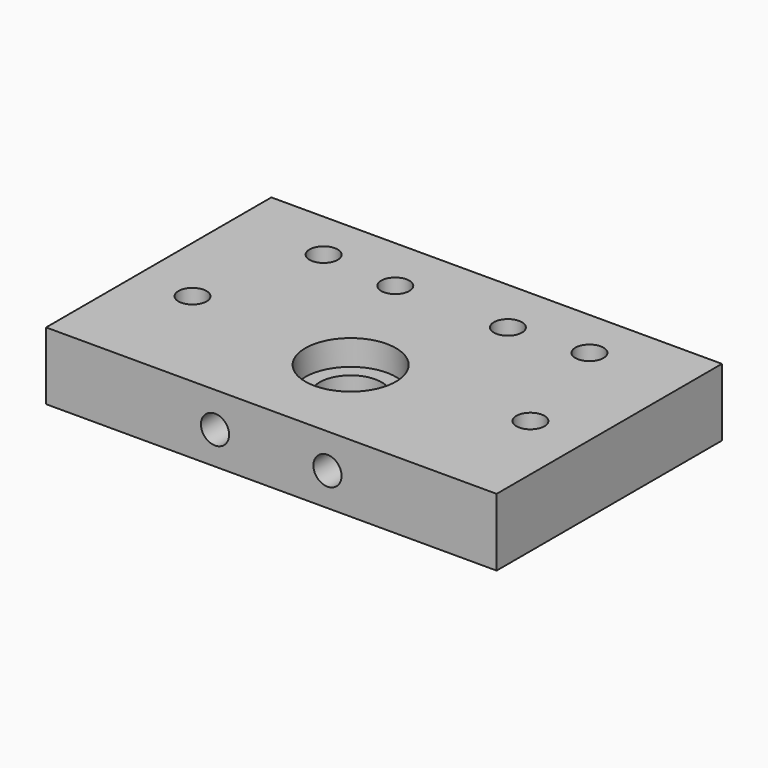
from build123d import *

# Parameters (mm, degrees)
SKETCH001_W     = 80
SKETCH001_H     = 50
SKETCH001_R     = 2.5
SKETCH001_R_2   = 5.5
PAD_DEPTH       = 12
SKETCH002_R     = 2.5
POCKET_DEPTH    = 11
SKETCH003_R     = 8.05
POCKET001_DEPTH = 4.5
SKETCH004_R     = 4.6
SKETCH004_R_2   = 4.624594
SKETCH004_R_3   = 4.583454
SKETCH004_R_4   = 4.624604
POCKET002_DEPTH = 1.55


with BuildPart() as part:
    # Sketch001 → Pad (new body)
    with BuildSketch(Plane(origin=(260, 460, 88), x_dir=(-1, 0, 0), z_dir=(0, 0, 1))):
        with Locations((40, 25)):
            Rectangle(SKETCH001_W, SKETCH001_H)
        with Locations((10, 30)):
            Circle(SKETCH001_R, mode=Mode.SUBTRACT)
        with Locations((30, 10)):
            Circle(SKETCH001_R, mode=Mode.SUBTRACT)
        with Locations((16.4, 8.9)):
            Circle(SKETCH001_R, mode=Mode.SUBTRACT)
        with Locations((50, 10)):
            Circle(SKETCH001_R, mode=Mode.SUBTRACT)
        with Locations((63.6, 8.9)):
            Circle(SKETCH001_R, mode=Mode.SUBTRACT)
        with Locations((70, 30)):
            Circle(SKETCH001_R, mode=Mode.SUBTRACT)
        with Locations((40, 32.4)):
            Circle(SKETCH001_R_2, mode=Mode.SUBTRACT)
    extrude(amount=PAD_DEPTH)

    # Sketch002 → Pocket (cut)
    with BuildSketch(Plane(origin=(260, 410, 88), x_dir=(1, 0, 0), z_dir=(0, -1, 0))):
        with Locations((-30.033846, 5.850095)):
            Circle(SKETCH002_R)
        with Locations((-50.003807, 5.788844)):
            Circle(SKETCH002_R)
    extrude(amount=-POCKET_DEPTH, mode=Mode.SUBTRACT)

    # Sketch003 → Pocket001 (cut)
    with BuildSketch(Plane(origin=(260, 460, 100), x_dir=(-1, 0, 0), z_dir=(0, 0, 1))):
        with Locations((40, 32.4)):
            Circle(SKETCH003_R)
    extrude(amount=-POCKET001_DEPTH, mode=Mode.SUBTRACT)

    # Sketch004 → Pocket002 (cut)
    with BuildSketch(Plane(origin=(260, 460, 88), x_dir=(-1, 0, 0), z_dir=(0, 0, -1))):
        with Locations((10, -30)):
            Circle(SKETCH004_R)
        with Locations((70, -30)):
            Circle(SKETCH004_R_2)
        with Locations((30, -10)):
            Circle(SKETCH004_R_3)
        with Locations((50, -10)):
            Circle(SKETCH004_R_4)
    extrude(amount=-POCKET002_DEPTH, mode=Mode.SUBTRACT)


solid = part.part
